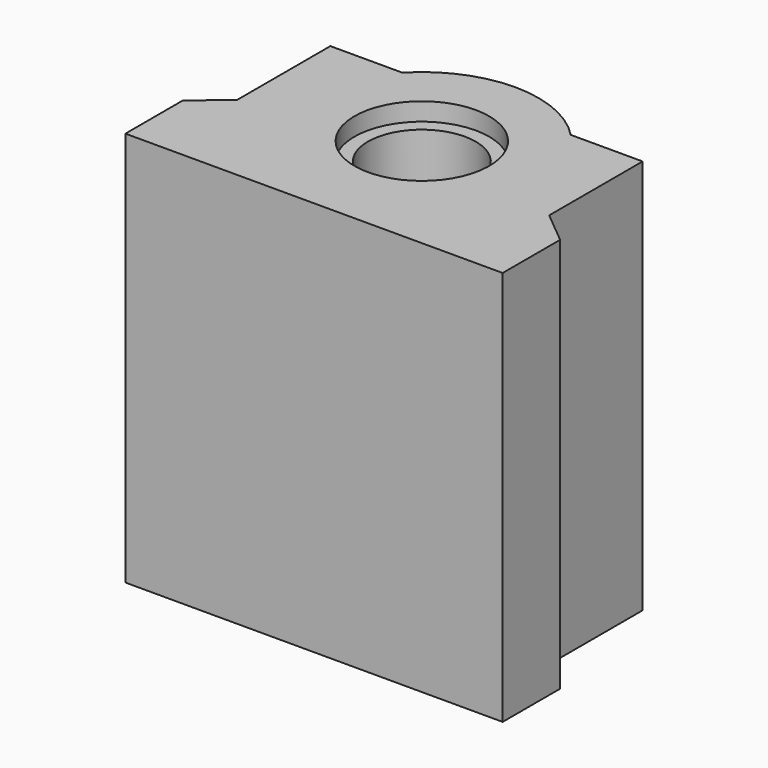
from build123d import *

# Parameters (mm, degrees)
F1_DEPTH = 44
F3_START = 2
F3_DEPTH = 40


with BuildPart() as f1:
    # F0 (on Top) → F1 (new body)
    with BuildSketch(Plane.XY):
        with BuildLine():
            Line((-21, -15), (0, -15))
            Line((0, -15), (21, -15))
            Line((21, -15), (21, -7))
            Line((21, -7), (17.3808315196, -4))
            Line((17.3808315196, -4), (17.3808315196, 9))
            Line((17.3808315196, 9), (9.3808315196, 9))
            ThreePointArc((9.3808315196, 9), (5.0990195136, 11.9582607431), (0, 13))
            ThreePointArc((0, 13), (-5.0990195136, 11.9582607431), (-9.3808315196, 9))
            Line((-9.3808315196, 9), (-17.3808315196, 9))
            Line((-17.3808315196, 9), (-17.3808315196, -4))
            Line((-17.3808315196, -4), (-21, -7))
            Line((-21, -7), (-21, -15))
        make_face()
        with BuildLine():
            ThreePointArc((0, -7.5), (-7.5, 0), (0, 7.5))
            ThreePointArc((0, 7.5), (7.5, 0), (0, -7.5))
        make_face(mode=Mode.SUBTRACT)
    extrude(amount=F1_DEPTH)


with BuildPart() as f3:
    # F0 (on Top) → F3 (new body)
    with BuildSketch(Plane.XY.offset(F3_START)):
        with BuildLine():
            ThreePointArc((0, -7.5), (7.5, 0), (0, 7.5))
            ThreePointArc((0, 7.5), (-7.5, 0), (0, -7.5))
        make_face()
        with BuildLine():
            ThreePointArc((0, -6), (-6, 0), (0, 6))
            ThreePointArc((0, 6), (6, 0), (0, -6))
        make_face(mode=Mode.SUBTRACT)
    extrude(amount=F3_DEPTH)


solid = Compound([f1.part, f3.part])
